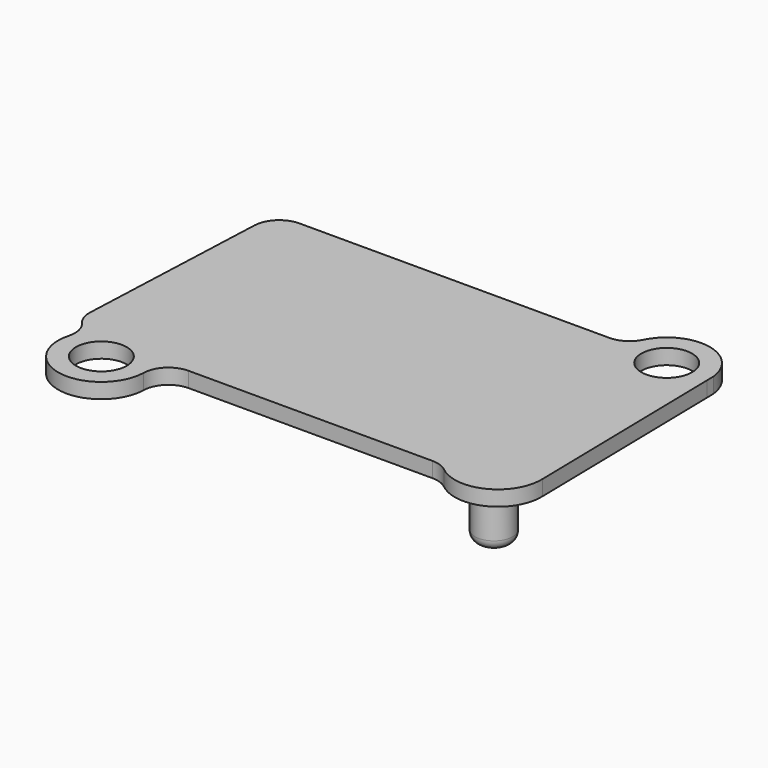
from build123d import *

# Parameters (mm, degrees)
F0_R     = 5
F1_DEPTH = 3
F2_R     = 3.725
F3_DEPTH = 10
F4_R     = 2


with BuildPart() as f1:
    # F0 (on Top) → F1 (new body)
    with BuildSketch(Plane.XY):
        with BuildLine():
            Line((78.493695, 10.47503), (77.727954, 52.007354))
            Line((77.727954, 52.007354), (77.698832, 53.58689))
            ThreePointArc((77.698832, 53.58689), (70.727577, 61.011984), (61.637258, 56.418888))
            ThreePointArc((61.637258, 56.418888), (59.793458, 54.391927), (57.158226, 53.64111))
            Line((57.158226, 53.64111), (-3.875332, 53.64111))
            ThreePointArc((-3.875332, 53.64111), (-7.335509, 52.250428), (-8.870883, 48.85198))
            Line((-8.870883, 48.85198), (-9.25947, 39.646301))
            Line((-9.25947, 39.646301), (-10.496852, 10.332507))
            ThreePointArc((-10.496852, 10.332507), (-10.218006, 8.462513), (-9.264741, 6.82975))
            ThreePointArc((-9.264741, 6.82975), (-8.156171, 4.661924), (-8.202929, 2.227544))
            ThreePointArc((-8.202929, 2.227544), (-1.233482, -8.410025), (8.497105, -0.221819))
            ThreePointArc((8.497105, -0.221819), (10.006306, 3.229069), (13.495402, 4.6477))
            Line((13.495402, 4.6477), (61.514719, 4.6477))
            ThreePointArc((61.514719, 4.6477), (63.181385, 4.361745), (64.657415, 3.536589))
            ThreePointArc((64.657415, 3.536589), (73.810232, 2.549533), (78.493695, 10.47503))
        make_face()
        Circle(F0_R, mode=Mode.SUBTRACT)
        with Locations((69.251613, 52.64111)):
            Circle(F0_R, mode=Mode.SUBTRACT)
    extrude(amount=F1_DEPTH)


with BuildPart() as f3:
    # F2 (on face) → F3 (new body)
    with BuildSketch(Plane(origin=(0, 0, 0), x_dir=(1, 0, 0), z_dir=(0, 0, -1))):
        with Locations((70, -9.1477)):
            Circle(F2_R)
    extrude(amount=F3_DEPTH)

    # F4
    f4_edges = [f3.edges().sort_by_distance(p)[0] for p in [
        (66.275, 9.1477, -10),
    ]]
    fillet(f4_edges, radius=F4_R)


solid = Compound([f1.part, f3.part])
